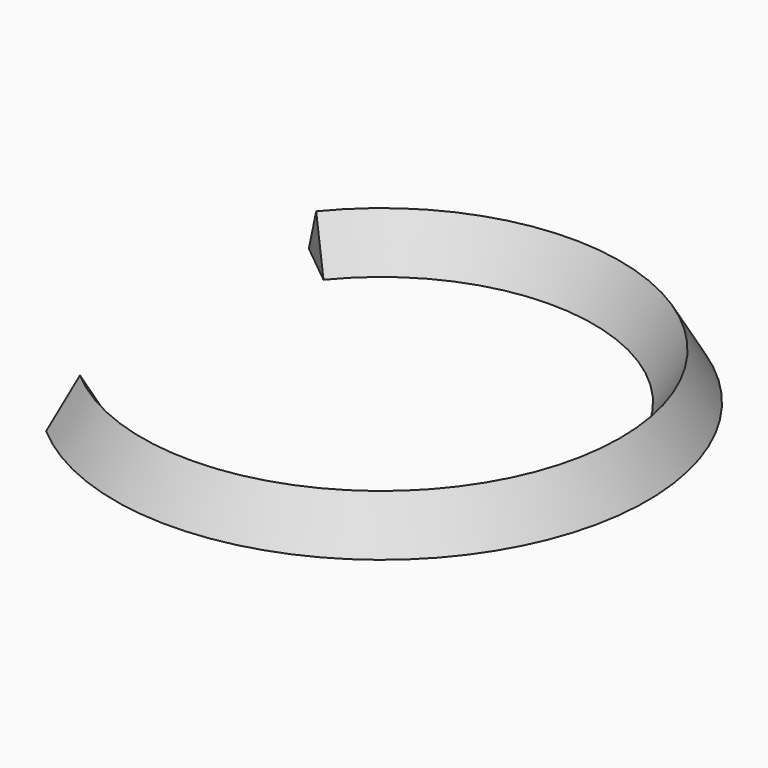
from build123d import *


with BuildPart() as f3:
    # F3: sweep along a path in F0
    with BuildLine(Plane.XY) as f3_path:
        ThreePointArc((-39.6821536124, -30.8223813772), (51.9883725074, 16.0865359029), (-46.4743636549, 46.2365187705))
    # F2 (on line) → F3 (sweep)
    with BuildSketch(Plane(origin=(-7.4642957365, 6.4517555361, 0), x_dir=(0.6539285714, 0.7565562924, 0), z_dir=(0.7565562924, -0.6539285714, 0))):
        Polygon((-43.0167564275, -3.6092498808), (-49.2681605983, 7.2184997617), (-55.5195647691, -3.6092498808), align=None)
    sweep(path=f3_path.line)


solid = f3.part
